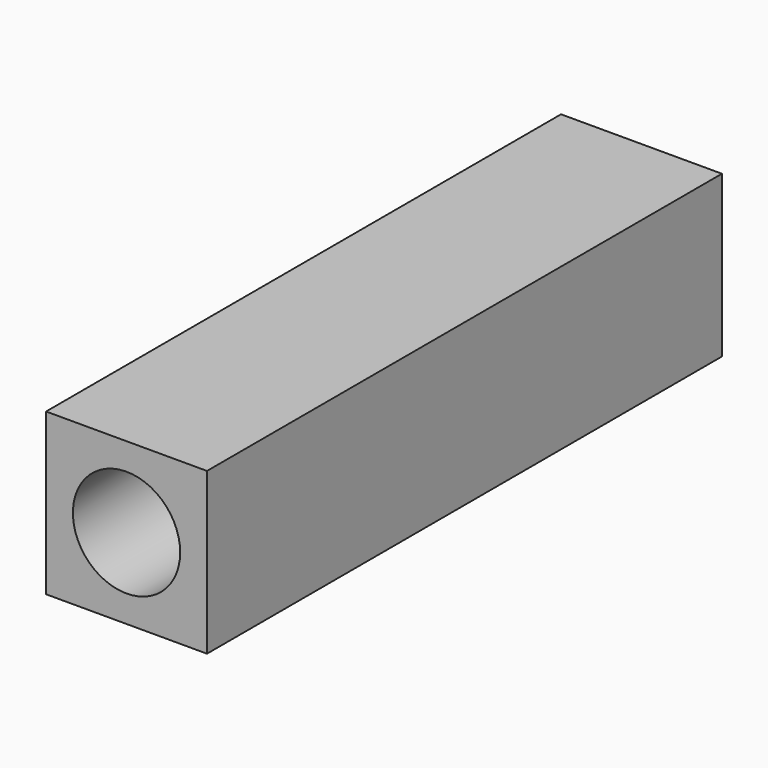
from build123d import *

# Parameters (mm, degrees)
F0_W     = 30
F0_H     = 30
F1_DEPTH = 60
F2_R     = 10
F3_DEPTH = 40
F4_R     = 10
F5_DEPTH = 40


with BuildPart() as f1:
    # F0 (on Front) → F1 (new body, symmetric)
    with BuildSketch(Plane.XZ):
        Rectangle(F0_W, F0_H)
    extrude(amount=F1_DEPTH, both=True)

    # F2 (on face) → F3 (cut)
    with BuildSketch(Plane(origin=(0, 60, 0), x_dir=(-1, 0, 0), z_dir=(0, 1, 0))):
        Circle(F2_R)
    extrude(amount=-F3_DEPTH, mode=Mode.SUBTRACT)

    # F4 (on face) → F5 (cut)
    with BuildSketch(Plane.XZ.offset(60)):
        Circle(F4_R)
    extrude(amount=-F5_DEPTH, mode=Mode.SUBTRACT)


solid = f1.part
